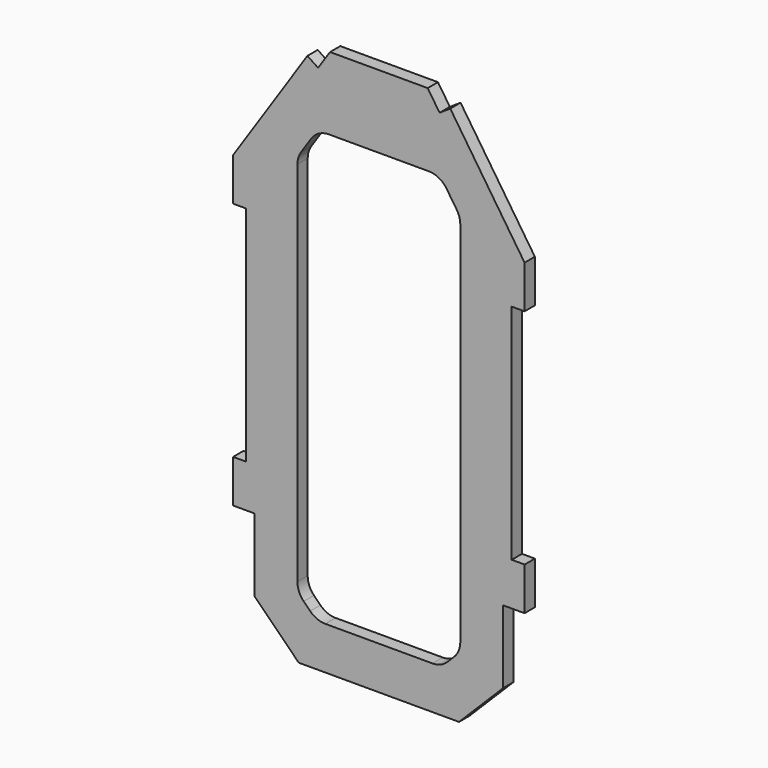
from build123d import *

# Parameters (mm, degrees)
F1_DEPTH = 1.5


with BuildPart() as f1:
    # F0 (on Front) → F1 (new body, symmetric)
    with BuildSketch(Plane.XZ):
        Polygon((11.3944487245, 63.5), (-11.3944487245, 63.5), (-14.1679497057, 59.3397485283), (-16.6641005887, 61.003849117), (-34, 35), (-34, 25), (-31, 25), (-31, -27), (-34, -27), (-34, -37), (-29, -37), (-29, -54), (-18.7, -64.3), (18.7, -64.3), (29, -54), (29, -37), (34, -37), (34, -27), (31, -27), (31, 25), (34, 25), (34, 35), (16.6641005887, 61.003849117), (14.1679497057, 59.3397485283), align=None)
        with BuildLine():
            Line((-18.1602514717, 40.7318664151), (-15.799161761, 44.2735009811))
            ThreePointArc((-15.799161761, 44.2735009811), (-13.998199917, 45.9083729938), (-11.6389102893, 46.5))
            Line((-11.6389102893, 46.5), (11.6389102893, 46.5))
            ThreePointArc((11.6389102893, 46.5), (13.998199917, 45.9083729938), (15.799161761, 44.2735009811))
            Line((15.799161761, 44.2735009811), (18.1602514717, 40.7318664151))
            ThreePointArc((18.1602514717, 40.7318664151), (18.7854601324, 39.4072861775), (19, 37.958365434))
            Line((19, 37.958365434), (19, -47.7867965644))
            ThreePointArc((19, -47.7867965644), (18.6193976626, -49.7002137262), (17.5355339059, -51.3223304703))
            Line((17.5355339059, -51.3223304703), (16.0223304703, -52.8355339059))
            ThreePointArc((16.0223304703, -52.8355339059), (14.4002137262, -53.9193976626), (12.4867965644, -54.3))
            Line((12.4867965644, -54.3), (-12.4867965644, -54.3))
            ThreePointArc((-12.4867965644, -54.3), (-14.4002137262, -53.9193976626), (-16.0223304703, -52.8355339059))
            Line((-16.0223304703, -52.8355339059), (-17.5355339059, -51.3223304703))
            ThreePointArc((-17.5355339059, -51.3223304703), (-18.6193976626, -49.7002137262), (-19, -47.7867965644))
            Line((-19, -47.7867965644), (-19, 37.958365434))
            ThreePointArc((-19, 37.958365434), (-18.7854601324, 39.4072861775), (-18.1602514717, 40.7318664151))
        make_face(mode=Mode.SUBTRACT)
    extrude(amount=F1_DEPTH, both=True)


solid = f1.part
